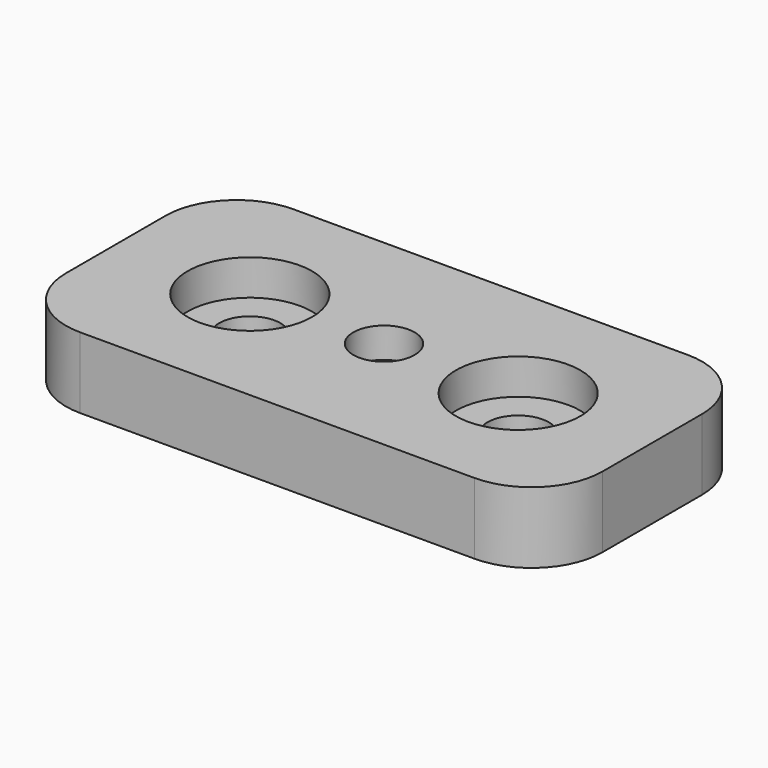
from build123d import *

# Parameters (mm, degrees)
F0_W     = 30.2
F0_H     = 15
F0_R     = 1.725
F1_DEPTH = 4
F2_R     = 3.5
F3_DEPTH = 2
F5_DEPTH = 2
F6_R     = 1.75
F7_DEPTH = 0.3
F8_R     = 4


with BuildPart() as f1:
    # F0 (on Top) → F1 (new body)
    with BuildSketch(Plane.XY):
        with Locations((15.1, 7.5)):
            Rectangle(F0_W, F0_H)
        with Locations((7.55, 7.5)):
            Circle(F0_R, mode=Mode.SUBTRACT)
        with Locations((15.1, 7.5)):
            Circle(F0_R, mode=Mode.SUBTRACT)
        with Locations((22.65, 7.5)):
            Circle(F0_R, mode=Mode.SUBTRACT)
    extrude(amount=F1_DEPTH)

    # F2 (on face) → F3 (cut)
    with BuildSketch(Plane.XY.offset(4)):
        with Locations((7.55, 7.5)):
            Circle(F2_R)
        with Locations((22.65, 7.5)):
            Circle(F2_R)
    extrude(amount=-F3_DEPTH, mode=Mode.SUBTRACT)

    # F4 (on face) → F5 (cut)
    with BuildSketch(Plane(origin=(0, 0, 0), x_dir=(1, 0, 0), z_dir=(0, 0, -1))):
        Polygon((18.679572, -7.5), (16.889786, -4.4), (13.310214, -4.4), (11.520428, -7.5), (13.310214, -10.6), (16.889786, -10.6), align=None)
    extrude(amount=-F5_DEPTH, mode=Mode.SUBTRACT)

    # F6 (on face) → F7 (join)
    with BuildSketch(Plane(origin=(0, 0, 2), x_dir=(1, 0, 0), z_dir=(0, 0, -1))):
        with Locations((15.1, -7.5)):
            Circle(F6_R)
    extrude(amount=-F7_DEPTH)

    # F8
    f8_edges = [f1.edges().sort_by_distance(p)[0] for p in [
        (0, 0, 2),
        (30.2, 0, 2),
        (30.2, 15, 2),
        (0, 15, 2),
    ]]
    fillet(f8_edges, radius=F8_R)


solid = f1.part
